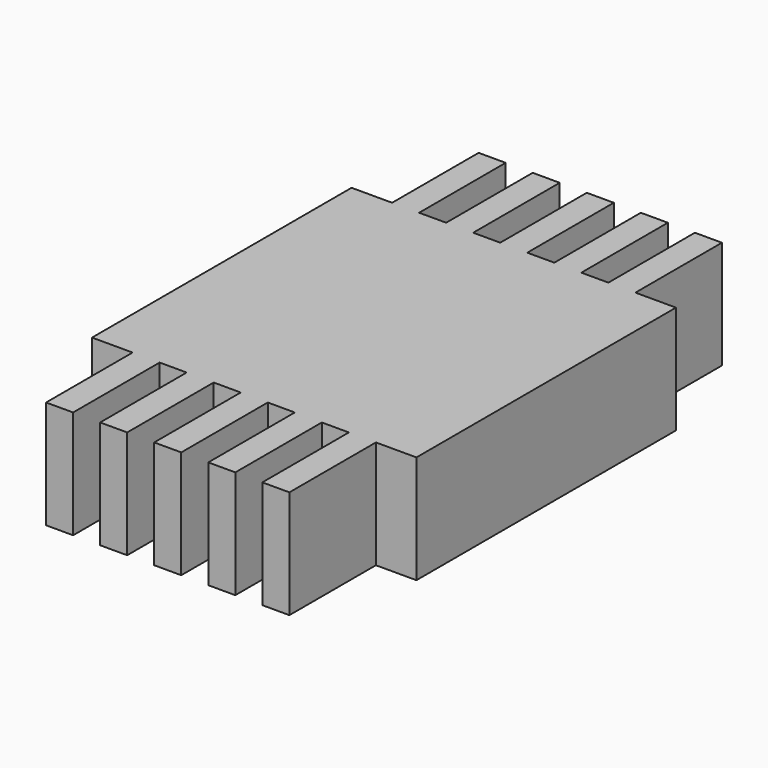
from build123d import *

# Parameters (mm, degrees)
F0_W     = 0.25
F0_H     = 1
F1_DEPTH = 1


with BuildPart() as f1:
    # F0 (on Top) → F1 (new body)
    with BuildSketch(Plane.XY):
        Polygon((1.5, -1.5), (1.5, 1.5), (1.125, 1.5), (0.875, 1.5), (0.625, 1.5), (0.375, 1.5), (0.125, 1.5), (-0.125, 1.5), (-0.375, 1.5), (-0.625, 1.5), (-0.875, 1.5), (-1.125, 1.5), (-1.5, 1.5), (-1.5, -1.5), (-1.125, -1.5), (-0.875, -1.5), (-0.625, -1.5), (-0.375, -1.5), (-0.125, -1.5), (0.125, -1.5), (0.375, -1.5), (0.625, -1.5), (0.875, -1.5), (1.125, -1.5), align=None)
        with Locations((1, 2)):
            Rectangle(F0_W, F0_H)
        with Locations((1, -2)):
            Rectangle(F0_W, F0_H)
        with Locations((0.5, 2)):
            Rectangle(F0_W, F0_H)
        with Locations((0.5, -2)):
            Rectangle(F0_W, F0_H)
        with Locations((0, 2)):
            Rectangle(F0_W, F0_H)
        with Locations((0, -2)):
            Rectangle(F0_W, F0_H)
        with Locations((-0.5, 2)):
            Rectangle(F0_W, F0_H)
        with Locations((-0.5, -2)):
            Rectangle(F0_W, F0_H)
        with Locations((-1, 2)):
            Rectangle(F0_W, F0_H)
        with Locations((-1, -2)):
            Rectangle(F0_W, F0_H)
    extrude(amount=F1_DEPTH)


solid = f1.part
